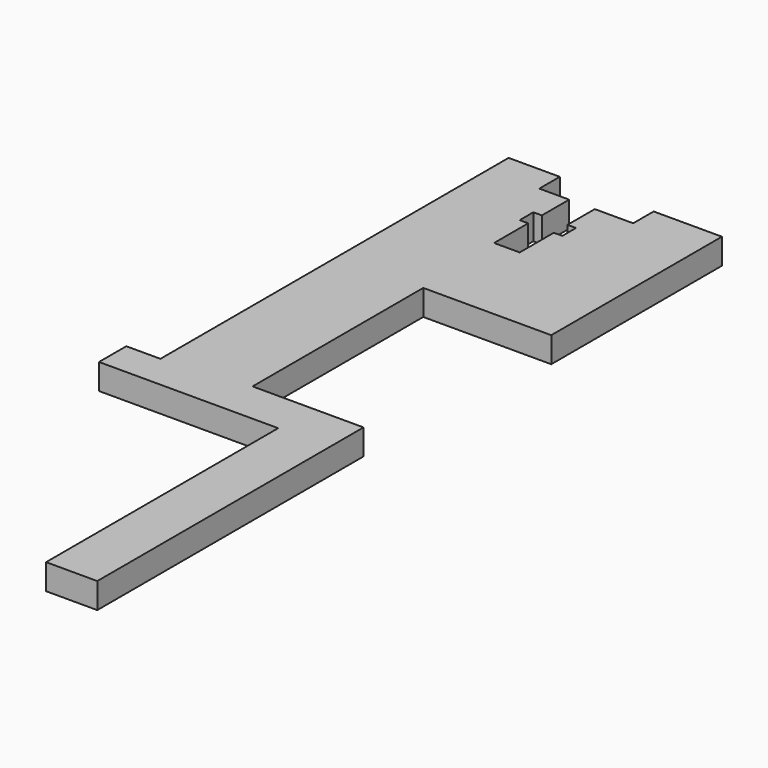
from build123d import *

# Parameters (mm, degrees)
F0_W     = 4
F0_H     = 4
F0_W_2   = 6
F0_H_2   = 34
F0_W_3   = 10
F0_H_3   = 25
F1_DEPTH = 3


with BuildPart() as f1:
    # F0 (on Top) → F1 (new body)
    with BuildSketch(Plane.XY):
        with Locations((-14.5, -40.5)):
            Rectangle(F0_W, F0_H)
        with Locations((7.5, -59.5)):
            Rectangle(F0_W_2, F0_H_2)
        with Locations((-7.5, -25)):
            Rectangle(F0_W_3, F0_H_3)
        Polygon((10.5, -37.5), (-2.5, -37.5), (-12.5, -37.5), (-12.5, -38.5), (-12.5, -42.5), (4.5, -42.5), (10.5, -42.5), align=None)
        Polygon((12.5, -12.5), (12.5, 12.5), (4.5, 12.5), (4.5, 9.5), (0, 9.5), (0, 5.5), (1, 5.5), (1, 3.5), (0, 3.5), (0, -1.5), (-3, -1.5), (-3, 3.5), (-4, 3.5), (-4, 5.5), (-3, 5.5), (-3, 9.5), (-6.5, 9.5), (-6.5, 12.5), (-12.5, 12.5), (-12.5, -12.5), (-2.5, -12.5), align=None)
    extrude(amount=F1_DEPTH)


solid = f1.part
